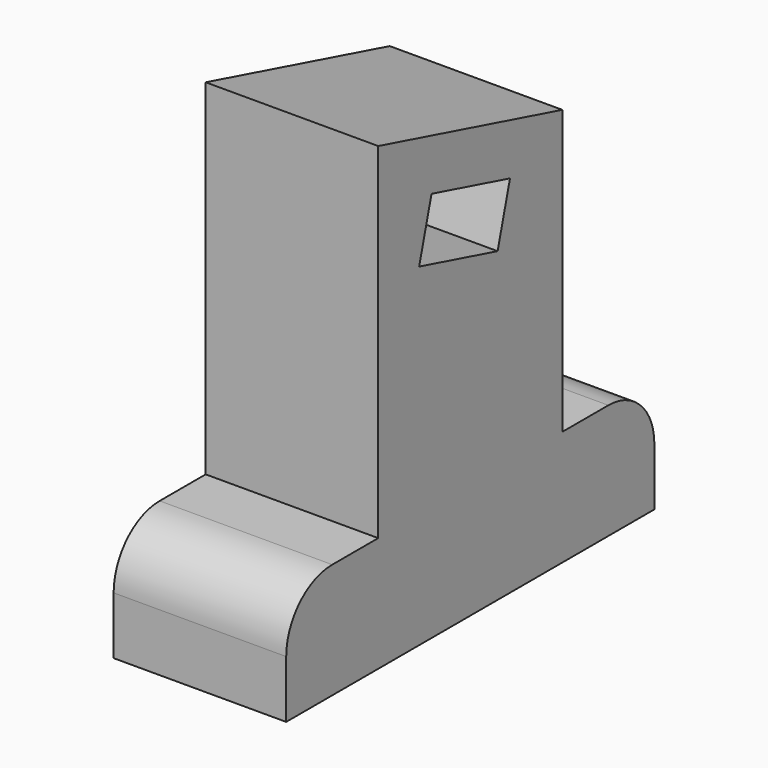
from build123d import *

# Parameters (mm, degrees)
F1_DEPTH = 15


with BuildPart() as f1:
    # F0 (on Right) → F1 (new body)
    with BuildSketch(Plane.YZ):
        with BuildLine():
            Line((-20, -20), (-10, -20))
            Line((-10, -20), (10, -20))
            Line((10, -20), (20, -20))
            Line((20, -20), (20, -15))
            ThreePointArc((20, -15), (18.535534, -11.464466), (15, -10))
            Line((15, -10), (10, -10))
            Line((10, -10), (10, 14.641016))
            Line((10, 14.641016), (-10, 20))
            Line((-10, 20), (-10, -10))
            Line((-10, -10), (-15, -10))
            ThreePointArc((-15, -10), (-18.535534, -11.464466), (-20, -15))
            Line((-20, -15), (-20, -20))
        make_face()
        Polygon((-4.211055, 13.992027), (4.314648, 11.707572), (2.968838, 6.684938), (-5.556865, 8.969393), align=None, mode=Mode.SUBTRACT)
    extrude(amount=F1_DEPTH)


solid = f1.part
